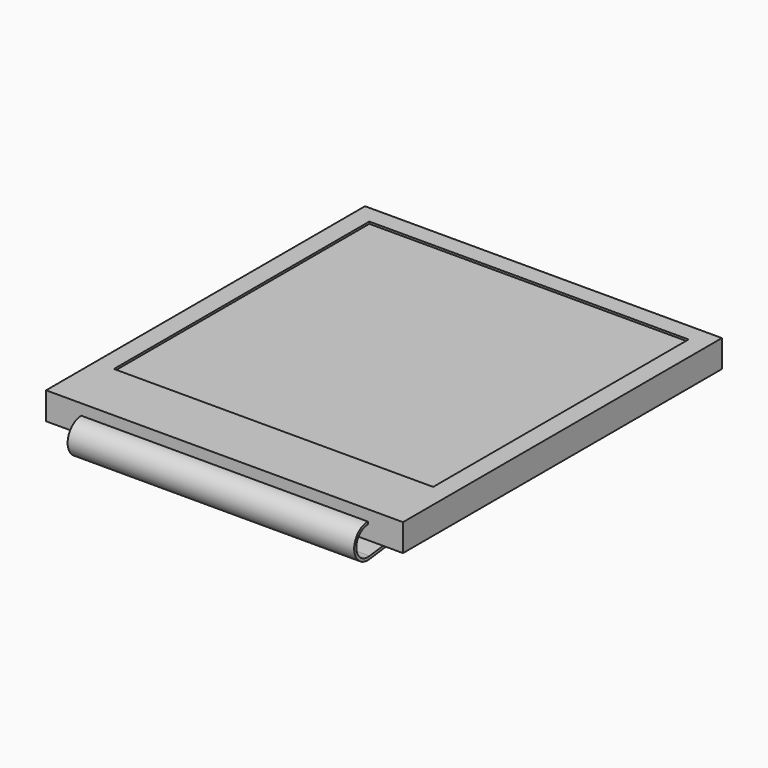
from build123d import *

# Parameters (mm, degrees)
SKETCH001_W     = 26.16
SKETCH001_H     = 29.22
PAD001_DEPTH    = 2
SKETCH003_W     = 23.4
SKETCH003_H     = 23.4
POCKET001_DEPTH = 0.151
PAD002_DEPTH    = 10.5


with BuildPart() as part:
    # Sketch001 → Pad001 (new body)
    with BuildSketch(Plane.XY.offset(2.8)):
        Rectangle(SKETCH001_W, SKETCH001_H)
    extrude(amount=-PAD001_DEPTH)

    # Sketch003 → Pocket001 (cut, through all)
    with BuildSketch(Plane.XY.offset(2.65)):
        with Locations((0, 1.58)):
            Rectangle(SKETCH003_W, SKETCH003_H)
    extrude(amount=POCKET001_DEPTH, mode=Mode.SUBTRACT)

    # Sketch004 → Pad002 (join, symmetric)
    with BuildSketch(Plane.YZ):
        with BuildLine():
            ThreePointArc((-14.61, 2), (-15.856499, 0.656513), (-14.423549, -0.486016))
            ThreePointArc((-10.61, -0.2), (-12.52213, -0.271604), (-14.423549, -0.486016))
            Line((-10.61, 0), (-10.61, -0.2))
            ThreePointArc((-10.61, 0), (-12.537088, -0.072164), (-14.453381, -0.288254))
            ThreePointArc((-14.61, 1.8), (-15.657059, 0.671471), (-14.453381, -0.288254))
            Line((-14.61, 2), (-14.61, 1.8))
        make_face()
    extrude(amount=PAD002_DEPTH, both=True)


solid = part.part
